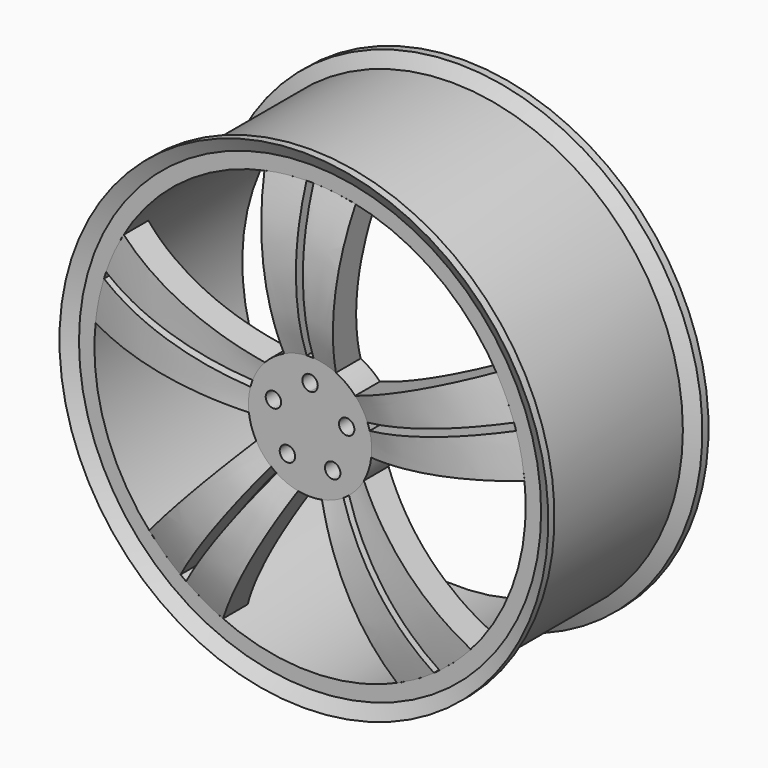
from build123d import *

# Parameters (mm, degrees)
F2_R      = 50.8
F3_DEPTH  = 25.4
F5_DEPTH  = 25.4
F6_COUNT  = 5
F9_R      = 6.35
F10_DEPTH = 25.4


with BuildPart() as f1:
    # F0 (on Right) → F1 (revolve)
    with BuildSketch(Plane.YZ):
        Polygon((0, 190.5), (0, 177.8), (152.4, 177.8), (152.4, 190.5), (158.75, 201.4985226281), (152.4, 201.4985226281), (146.05, 190.5), (6.35, 190.5), (0, 201.4985226281), (-6.35, 201.4985226281), align=None)
    revolve(axis=Axis((0, 76.2, 0), (0, 1, 0)))


with BuildPart() as f3:
    # F2 (on face) → F3 (new body)
    with BuildSketch(Plane.XZ):
        Circle(F2_R)
    extrude(amount=-F3_DEPTH)

    # F4 (on face) → F5 (join, symmetric)
    with BuildSketch(Plane.XZ):
        with BuildLine():
            ThreePointArc((-21.3448143884, 46.0981442004), (-12.3228535904, 49.2827280027), (-2.8637913874, 50.7192142968))
            Line((-2.8637913874, 50.7192142968), (-2.8637913874, 177.7655769173))
            ThreePointArc((-2.8637913874, 177.7655769173), (-20.3246651682, 176.6230721725), (-37.5886584387, 173.7696590163))
            Line((-37.5886584387, 173.7696590163), (-21.3448143884, 46.0981442004))
        make_face()
        with BuildLine():
            Line((2.8637913874, 177.7655769173), (2.8637913874, 50.7192142968))
            ThreePointArc((2.8637913874, 50.7192142968), (12.3228535904, 49.2827280027), (21.3448143884, 46.0981442004))
            Line((21.3448143884, 46.0981442004), (37.5886584387, 173.7696590163))
            ThreePointArc((37.5886584387, 173.7696590163), (20.3246651682, 176.6230721725), (2.8637913874, 177.7655769173))
        make_face()
    extrude(amount=F5_DEPTH, both=True)

    # F6: F3 ×5 about axis
    f6_axis = Axis((0, 0, 0), (0, 1, 0))


with BuildPart() as f3_1:
    add(f3.part)
    for i in range(1, F6_COUNT):
        add(f3.part.rotate(f6_axis, i * 360 / F6_COUNT))

    # F7 (on Right) → F8 (revolve, cut)
    with BuildSketch(Plane.YZ):
        with BuildLine():
            Line((-104.0923893452, 50.8), (0, 50.8))
            ThreePointArc((0, 50.8), (-10.9990730909, 114.3), (0, 177.8))
            Line((0, 177.8), (-104.0923893452, 177.8))
            Line((-104.0923893452, 177.8), (-104.0923893452, 50.8))
        make_face()
        with BuildLine():
            ThreePointArc((25.4, 177.8), (12.7, 114.3), (25.4, 50.8))
            Line((25.4, 50.8), (25.4, 177.8))
        make_face()
    revolve(axis=Axis((0, 0, 0), (0, 1, 0)), mode=Mode.SUBTRACT)

    # F9 (on face) → F10 (cut, through all)
    with BuildSketch(Plane.XZ):
        with BuildLine():
            ThreePointArc((0, 25.4), (4.4901280605, 27.2598719395), (6.35, 31.75))
            ThreePointArc((6.35, 31.75), (-4.4901280605, 36.2401280605), (0, 25.4))
        make_face()
        with Locations((30.1960443924, 9.8112895714)):
            Circle(F9_R)
        with Locations((18.6621817603, -25.6862895714)):
            Circle(F9_R)
        with Locations((-18.6621817603, -25.6862895714)):
            Circle(F9_R)
        with Locations((-30.1960443924, 9.8112895714)):
            Circle(F9_R)
    extrude(amount=-F10_DEPTH, mode=Mode.SUBTRACT)


solid = Compound([f1.part, f3_1.part])
